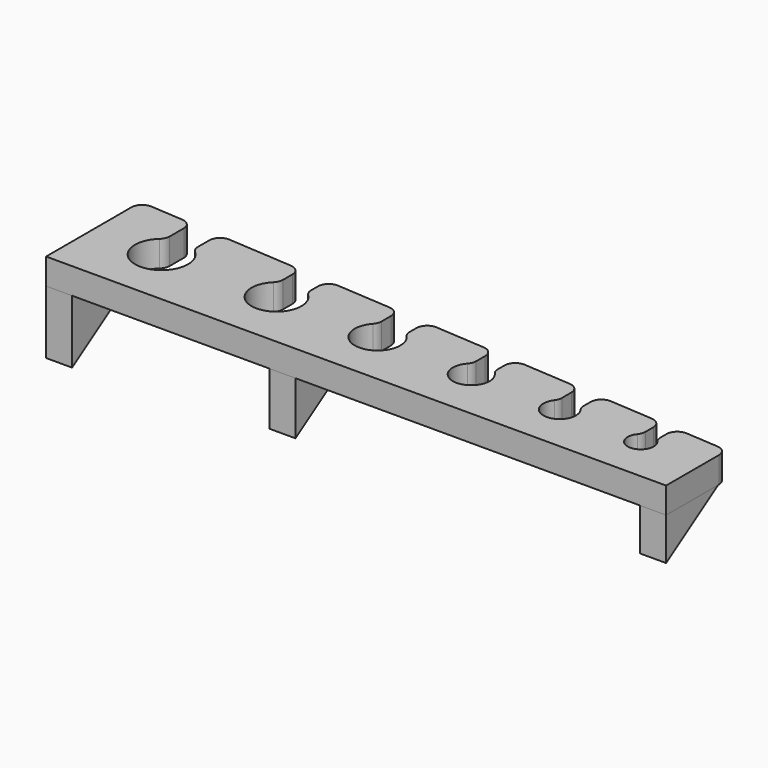
from build123d import *

# Parameters (mm, degrees)
F1_DEPTH = 12
F2_R     = 5
F4_DEPTH = 12
F6_DEPTH = 12
F9_DEPTH = 12


with BuildPart() as f1:
    # F0 (on Top) → F1 (new body)
    with BuildSketch(Plane.XY):
        with BuildLine():
            Line((0, 54.512049), (0, 0))
            Line((0, 0), (286, 0))
            Line((286, 0), (286, 35.102649))
            Line((286, 35.102649), (261, 36.799275))
            Line((261, 36.799275), (261, 25.873397))
            ThreePointArc((261, 25.873397), (262.838539, 23.738613), (263.5, 21))
            ThreePointArc((263.5, 21), (254.761387, 15.661461), (254, 25.873397))
            Line((254, 25.873397), (254, 37.274331))
            Line((254, 37.274331), (224, 39.310282))
            Line((224, 39.310282), (224, 27.97617))
            ThreePointArc((224, 27.97617), (225.846532, 25.447862), (226.5, 22.386))
            ThreePointArc((226.5, 22.386), (215.938138, 15.539468), (214, 27.97617))
            Line((214, 27.97617), (214, 39.988932))
            Line((214, 39.988932), (182, 42.160613))
            Line((182, 42.160613), (182, 30.771864))
            ThreePointArc((182, 30.771864), (184.574629, 27.754812), (185.5, 23.898))
            ThreePointArc((185.5, 23.898), (173.143188, 16.323371), (172, 30.771864))
            Line((172, 30.771864), (172, 42.839263))
            Line((172, 42.839263), (139, 45.07881))
            Line((139, 45.07881), (139, 33.746211))
            ThreePointArc((139, 33.746211), (141.947222, 30.082576), (143, 25.5))
            ThreePointArc((143, 25.5), (127.917424, 16.052778), (126, 33.746211))
            Line((126, 33.746211), (126, 45.961055))
            Line((126, 45.961055), (91, 48.336331))
            Line((91, 48.336331), (91, 36.714833))
            ThreePointArc((91, 36.714833), (94.673495, 32.589903), (96, 27.228))
            ThreePointArc((96, 27.228), (79.138097, 17.054505), (78, 36.714833))
            Line((78, 36.714833), (78, 49.218577))
            Line((78, 49.218577), (38, 51.933178))
            Line((38, 51.933178), (38, 37.585315))
            ThreePointArc((38, 37.585315), (42.200607, 33.145854), (43.728, 27.228))
            ThreePointArc((43.728, 27.228), (25.582146, 16.527393), (25, 37.585315))
            Line((25, 37.585315), (25, 52.815424))
            Line((25, 52.815424), (0, 54.512049))
        make_face()
    extrude(amount=F1_DEPTH)

    # F2
    f2_edges = [f1.edges().sort_by_distance(p)[0] for p in [
        (286, 35.102649, 6),
        (261, 36.799275, 6),
        (254, 37.274331, 6),
        (224, 39.310282, 6),
        (214, 39.988932, 6),
        (182, 42.160613, 6),
        (172, 42.839263, 6),
        (139, 45.07881, 6),
        (126, 45.961055, 6),
        (91, 48.336331, 6),
        (78, 49.218577, 6),
        (38, 51.933178, 6),
        (25, 52.815424, 6),
        (0, 54.512049, 6),
        (25, 37.585315, 6),
        (38, 37.585315, 6),
        (91, 36.714833, 6),
        (139, 33.746211, 6),
        (182, 30.771864, 6),
        (78, 36.714833, 6),
        (126, 33.746211, 6),
        (214, 27.97617, 6),
        (254, 25.873397, 6),
        (261, 25.873397, 6),
        (224, 27.97617, 6),
        (172, 30.771864, 6),
    ]]
    fillet(f2_edges, radius=F2_R)


with BuildPart() as f4:
    # F3 (on Right) → F4 (new body)
    with BuildSketch(Plane.YZ):
        Polygon((45, 0), (0, 0), (0, -29.223342), align=None)
    extrude(amount=F4_DEPTH)


with BuildPart() as f6:
    # F5 (on face) → F6 (new body)
    with BuildSketch(Plane.YZ.offset(286)):
        Polygon((30, 0), (0, 0), (0, -19.482228), align=None)
    extrude(amount=-F6_DEPTH)


with BuildPart() as f9:
    # F8 (on offset) → F9 (new body)
    with BuildSketch(Plane.YZ.offset(103)):
        Polygon((0, -24.430629), (37.61987, 0), (0, 0), align=None)
    extrude(amount=F9_DEPTH)


solid = Compound([f1.part, f4.part, f6.part, f9.part])
